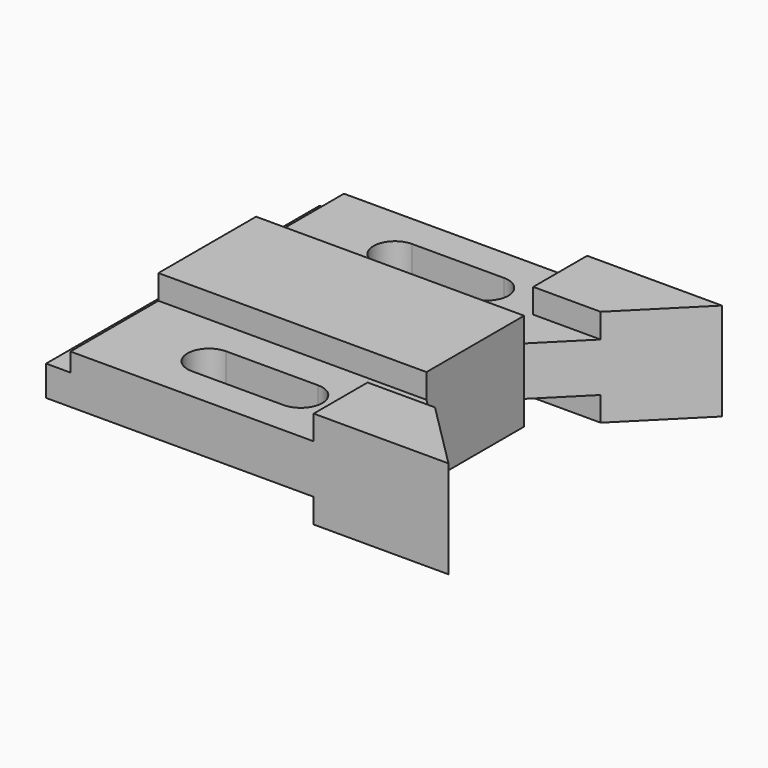
from build123d import *

# Parameters (mm, degrees)
F0_W     = 6.35
F0_H     = 28.575
F0_H_2   = 31.75
F0_W_2   = 69.723
F1_DEPTH = 25.4
F2_DEPTH = 6.35
F3_DEPTH = 6.35
F4_DEPTH = 11.176
F7_DEPTH = 6.35


with BuildPart() as f1:
    # F0 (on Top) → F1 (new body)
    with BuildSketch(Plane.XY):
        with Locations((3.175, 14.2875)):
            Rectangle(F0_W, F0_H)
        Polygon((6.35, 28.575), (6.35, 0), (69.596, 0), (69.596, 17.526), (87.122, 17.526), (76.073, 28.575), align=None)
        with BuildLine():
            ThreePointArc((30.988, 8.636), (25.4, 14.224), (30.988, 19.812))
            Line((30.988, 19.812), (54.864, 19.812))
            ThreePointArc((54.864, 19.812), (60.452, 14.224), (54.864, 8.636))
            Line((54.864, 8.636), (30.988, 8.636))
        make_face(mode=Mode.SUBTRACT)
        with Locations((3.175, 44.45)):
            Rectangle(F0_W, F0_H_2)
        Polygon((69.596, 17.526), (69.596, 0), (104.648, 0), (87.122, 17.526), align=None)
        with Locations((41.2115, 44.45)):
            Rectangle(F0_W_2, F0_H_2)
        with Locations((3.175, 74.6125)):
            Rectangle(F0_W, F0_H)
        Polygon((6.35, 88.9), (6.35, 60.325), (76.073, 60.325), (87.122, 71.374), (69.596, 71.374), (69.596, 88.9), align=None)
        with BuildLine():
            Line((54.864, 69.088), (30.988, 69.088))
            ThreePointArc((30.988, 69.088), (25.4, 74.676), (30.988, 80.264))
            Line((30.988, 80.264), (54.864, 80.264))
            ThreePointArc((54.864, 80.264), (60.452, 74.676), (54.864, 69.088))
        make_face(mode=Mode.SUBTRACT)
        Polygon((69.596, 71.374), (87.122, 71.374), (104.648, 88.9), (69.596, 88.9), align=None)
    extrude(amount=-F1_DEPTH)

    # F0 (on Top) → F2 (cut)
    with BuildSketch(Plane.XY):
        Polygon((6.35, 28.575), (6.35, 0), (69.596, 0), (69.596, 17.526), (87.122, 17.526), (76.073, 28.575), align=None)
        with BuildLine():
            ThreePointArc((30.988, 8.636), (25.4, 14.224), (30.988, 19.812))
            Line((30.988, 19.812), (54.864, 19.812))
            ThreePointArc((54.864, 19.812), (60.452, 14.224), (54.864, 8.636))
            Line((54.864, 8.636), (30.988, 8.636))
        make_face(mode=Mode.SUBTRACT)
    extrude(amount=-F2_DEPTH, mode=Mode.SUBTRACT)

    # F0 (on Top) → F3 (cut)
    with BuildSketch(Plane.XY):
        Polygon((6.35, 88.9), (6.35, 60.325), (76.073, 60.325), (87.122, 71.374), (69.596, 71.374), (69.596, 88.9), align=None)
        with BuildLine():
            Line((54.864, 69.088), (30.988, 69.088))
            ThreePointArc((30.988, 69.088), (25.4, 74.676), (30.988, 80.264))
            Line((30.988, 80.264), (54.864, 80.264))
            ThreePointArc((54.864, 80.264), (60.452, 74.676), (54.864, 69.088))
        make_face(mode=Mode.SUBTRACT)
    extrude(amount=-F3_DEPTH, mode=Mode.SUBTRACT)

    # F0 (on Top) → F4 (cut)
    with BuildSketch(Plane.XY):
        with Locations((3.175, 14.2875)):
            Rectangle(F0_W, F0_H)
        with Locations((3.175, 44.45)):
            Rectangle(F0_W, F0_H_2)
        with Locations((3.175, 74.6125)):
            Rectangle(F0_W, F0_H)
    extrude(amount=-F4_DEPTH, mode=Mode.SUBTRACT)

    # F6 (on offset) → F7 (cut)
    with BuildSketch(Plane.XY.offset(-25.4)):
        Polygon((0, 28.575), (0, 0), (69.596, 0), (69.596, 17.526), (87.122, 17.526), (76.073, 28.575), align=None)
        Polygon((0, 88.9), (0, 60.325), (76.073, 60.325), (87.122, 71.374), (69.596, 71.374), (69.596, 88.9), align=None)
    extrude(amount=F7_DEPTH, mode=Mode.SUBTRACT)


solid = f1.part
